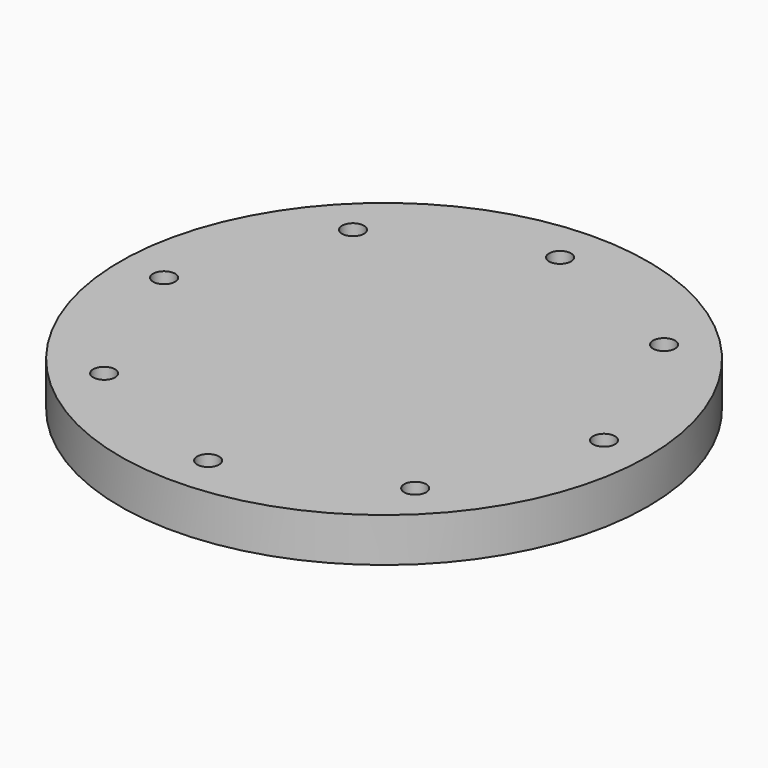
from build123d import *

# Parameters (mm, degrees)
F0_R     = 76.2
F2_DEPTH = 6.35
F1_R     = 3.175
F3_DEPTH = 6.35


with BuildPart() as f2:
    # F0 (on Top) → F2 (new body, symmetric)
    with BuildSketch(Plane.XY):
        Circle(F0_R)
    extrude(amount=F2_DEPTH, both=True)

    # F1 (on Top) → F3 (cut, symmetric)
    with BuildSketch(Plane.XY):
        with Locations((0, 63.5)):
            Circle(F1_R)
        with Locations((63.5, 0)):
            Circle(F1_R)
        with Locations((-63.5, 0)):
            Circle(F1_R)
        with Locations((0, -63.5)):
            Circle(F1_R)
        with Locations((-44.901281, 44.901281)):
            Circle(F1_R)
        with Locations((44.901281, 44.901281)):
            Circle(F1_R)
        with Locations((44.901281, -44.901281)):
            Circle(F1_R)
        with Locations((-44.901281, -44.901281)):
            Circle(F1_R)
    extrude(amount=F3_DEPTH, both=True, mode=Mode.SUBTRACT)


solid = f2.part
